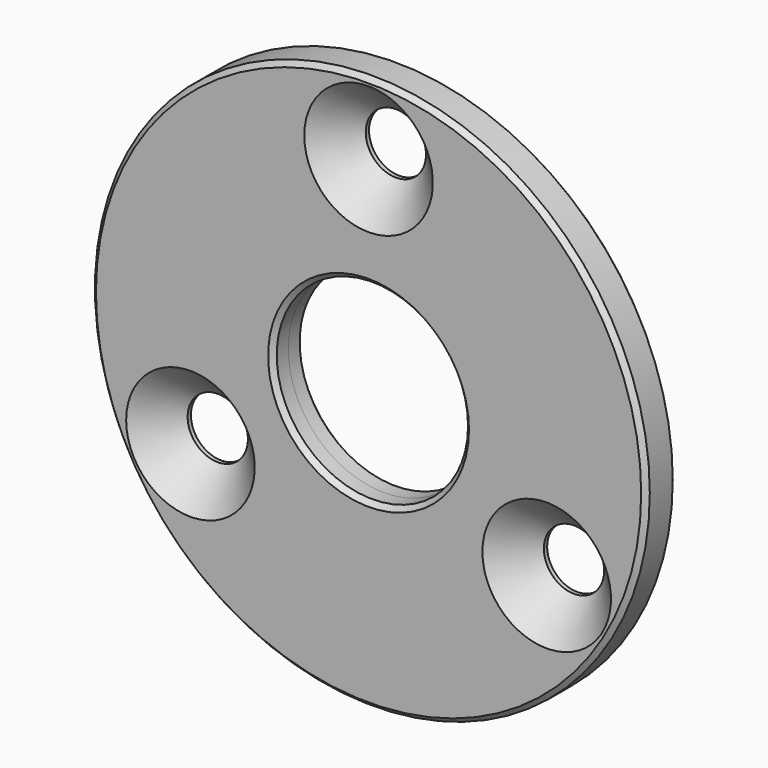
from build123d import *

# Parameters (mm, degrees)
F0_R           = 29
F0_R_2         = 10
F1_DEPTH       = 2
F1_DEPTH_BACK  = 2
F3_D           = 6.3
F3_CSINK_D     = 13.44
F3_CSINK_ANGLE = 90
F4_SIZE        = 0.5


with BuildPart() as f1:
    # F0 (on Front) → F1 (new body, two sides)
    with BuildSketch(Plane.XZ) as f1_sk:
        Circle(F0_R)
        Circle(F0_R_2, mode=Mode.SUBTRACT)
    extrude(amount=F1_DEPTH)
    extrude(f1_sk.sketch, amount=-F1_DEPTH_BACK)

    # F3 (through all)
    with Locations(Plane.XZ.offset(2)):
        with Locations((0, 21.5), (-18.6195461814, -10.75), (18.6195461814, -10.75)):
            CounterSinkHole(F3_D / 2, F3_CSINK_D / 2, counter_sink_angle=F3_CSINK_ANGLE)

    # F4
    f4_edges = [f1.edges().sort_by_distance(p)[0] for p in [
        (-29, -2, 0),
        (29, -1, 0),
        (-29, 0, 0),
        (-10, 2, 0),
        (-10, -2, 0),
    ]]
    chamfer(f4_edges, length=F4_SIZE)


solid = f1.part
